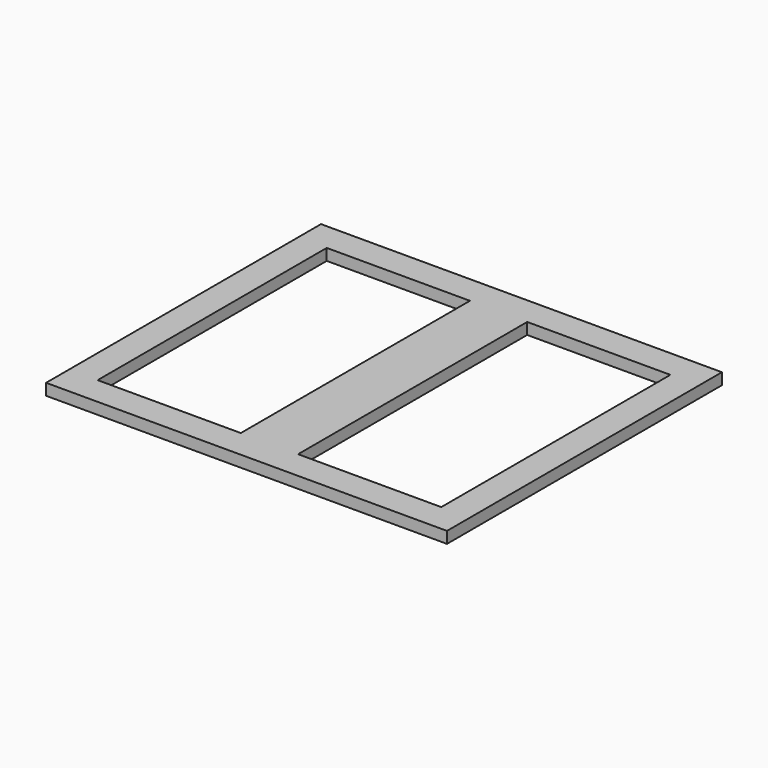
from build123d import *

# Parameters (mm, degrees)
F1_DEPTH = 2.54


with BuildPart() as f1:
    # F0 (on Top) → F1 (new body)
    with BuildSketch(Plane.XY):
        Polygon((-22.225, 43.18), (-44.45, 43.18), (-44.45, 5.08), (-38.1, 5.08), (-38.1, 36.83), (-22.225, 36.83), align=None)
        Polygon((0, 43.18), (-22.225, 43.18), (-22.225, 36.83), (-6.35, 36.83), (-6.35, 0), (0, 0), align=None)
        Polygon((-22.225, -26.67), (-22.225, -33.02), (0, -33.02), (0, 0), (-6.35, 0), (-6.35, -26.67), align=None)
        Polygon((-38.1, 5.08), (-44.45, 5.08), (-44.45, -33.02), (-22.225, -33.02), (-22.225, -26.67), (-38.1, -26.67), align=None)
        Polygon((6.35, 0), (0, 0), (0, -33.02), (22.225, -33.02), (22.225, -26.67), (6.35, -26.67), align=None)
        Polygon((22.225, 43.18), (0, 43.18), (0, 0), (6.35, 0), (6.35, 36.83), (22.225, 36.83), align=None)
        Polygon((44.45, 43.18), (22.225, 43.18), (22.225, 36.83), (38.1, 36.83), (38.1, 0), (44.45, 0), align=None)
        Polygon((22.225, -26.67), (22.225, -33.02), (44.45, -33.02), (44.45, 0), (38.1, 0), (38.1, -26.67), align=None)
    extrude(amount=F1_DEPTH)


solid = f1.part
